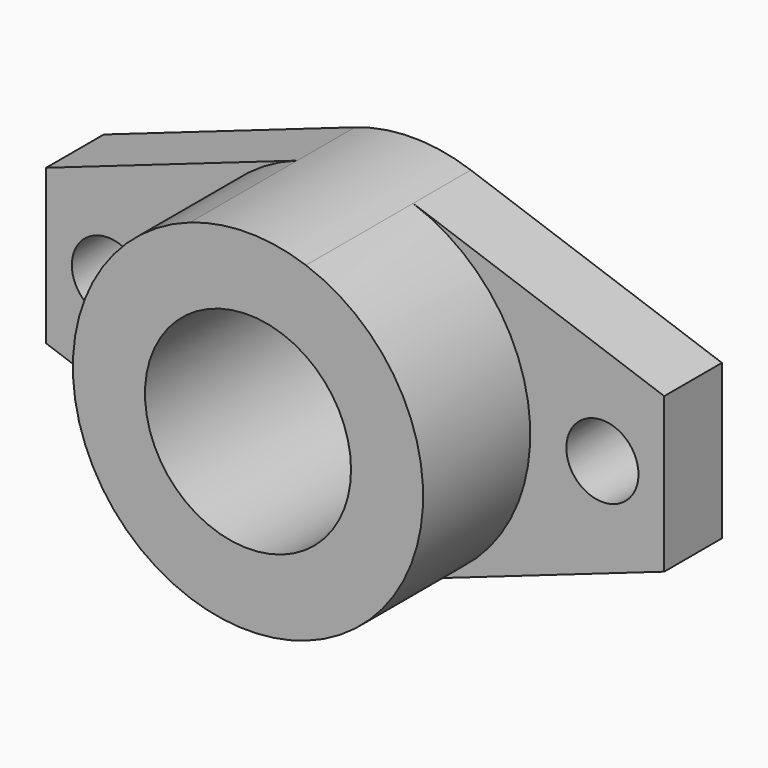
from build123d import *

# Parameters (mm, degrees)
F0_R     = 3.5
F0_R_2   = 10
F1_DEPTH = 20
F3_DEPTH = 13


with BuildPart() as f1:
    # F0 (on Front) → F1 (new body)
    with BuildSketch(Plane.XZ):
        with BuildLine():
            Line((30, -7.5), (30, 7.5))
            Line((30, 7.5), (5.622509, 16.043297))
            ThreePointArc((5.622509, 16.043297), (0, 17), (-5.622509, 16.043297))
            Line((-5.622509, 16.043297), (-30, 7.5))
            Line((-30, 7.5), (-30, -7.5))
            Line((-30, -7.5), (-5.622509, -16.043297))
            ThreePointArc((-5.622509, -16.043297), (0, -17), (5.622509, -16.043297))
            Line((5.622509, -16.043297), (30, -7.5))
        make_face()
        with Locations((-24, 0)):
            Circle(F0_R, mode=Mode.SUBTRACT)
        Circle(F0_R_2, mode=Mode.SUBTRACT)
        with Locations((24, 0)):
            Circle(F0_R, mode=Mode.SUBTRACT)
    extrude(amount=F1_DEPTH)

    # F2 (on face) → F3 (cut)
    with BuildSketch(Plane.XZ.offset(20)):
        with BuildLine():
            ThreePointArc((-5.622509, -16.043297), (-17, 0), (-5.622509, 16.043297))
            Line((-5.622509, 16.043297), (-30, 7.5))
            Line((-30, 7.5), (-30, -7.5))
            Line((-30, -7.5), (-5.622509, -16.043297))
        make_face()
        with BuildLine():
            ThreePointArc((5.622509, 16.043297), (17, 0), (5.622509, -16.043297))
            Line((5.622509, -16.043297), (30, -7.5))
            Line((30, -7.5), (30, 7.5))
            Line((30, 7.5), (5.622509, 16.043297))
        make_face()
    extrude(amount=-F3_DEPTH, mode=Mode.SUBTRACT)


solid = f1.part
